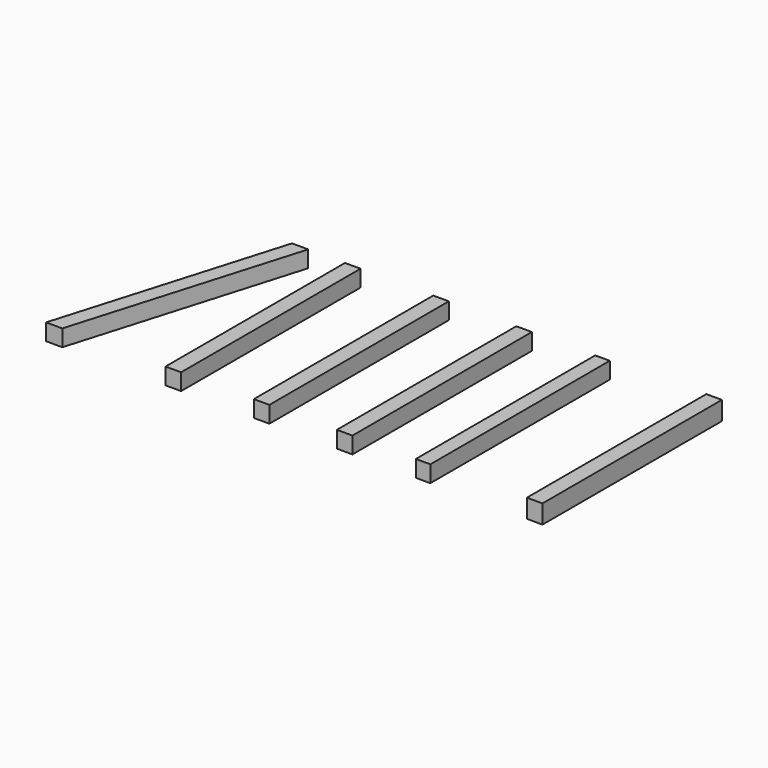
from build123d import *

# Parameters (mm, degrees)
F0_W     = 150
F0_H     = 2160
F0_W_2   = 140
F1_DEPTH = 160
F2_DEPTH = 180


with BuildPart() as f1:
    # F0 (on Top) → F1 (new body)
    with BuildSketch(Plane.XY):
        Polygon((-1918.83373, -1080), (-1278.83373, 1080), (-1435.279595, 1080), (-2075.279595, -1080), align=None)
        with Locations((-850, 0)):
            Rectangle(F0_W, F0_H)
        Rectangle(F0_W, F0_H)
        with Locations((800, 0)):
            Rectangle(F0_W, F0_H)
        with Locations((1555, 0)):
            Rectangle(F0_W_2, F0_H)
    extrude(amount=F1_DEPTH)


with BuildPart() as f2:
    # F0 (on Top) → F2 (new body)
    with BuildSketch(Plane.XY):
        with Locations((2630, 0)):
            Rectangle(F0_W, F0_H)
    extrude(amount=F2_DEPTH)


solid = Compound([f1.part, f2.part])
